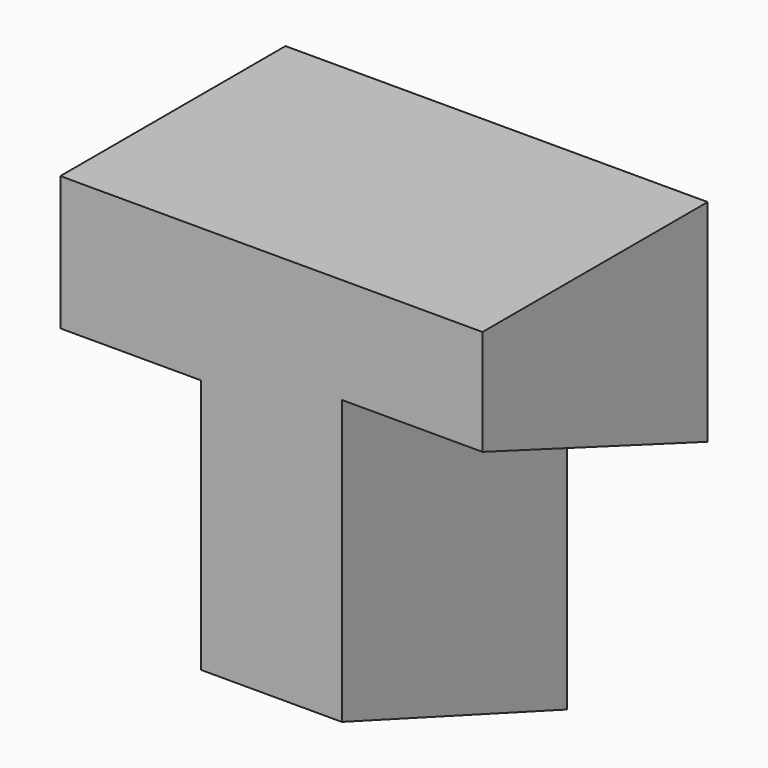
from build123d import *

# Parameters (mm, degrees)
F1_DEPTH = 25.4
F3_DEPTH = 25.4
F5_DEPTH = 12.7
F7_DEPTH = 12.7


with BuildPart() as f1:
    # F0 (on Front) → F1 (new body)
    with BuildSketch(Plane.XZ):
        Polygon((-12.7, 25.4), (0, 25.4), (0, 0), (12.7, 0), (12.7, 25.4), (25.4, 25.4), (25.4, 44.45), (-12.7, 44.45), align=None)
    extrude(amount=F1_DEPTH)

    # F2 (on face) → F3 (cut)
    with BuildSketch(Plane(origin=(0, 0, 0), x_dir=(0, -1, 0), z_dir=(-1, 0, 0))):
        Polygon((25.4, 9.339999), (0, 0), (25.4, 0), align=None)
    extrude(amount=-F3_DEPTH, mode=Mode.SUBTRACT)

    # F4 (on face) → F5 (cut)
    with BuildSketch(Plane(origin=(-12.7, 0, 0), x_dir=(0, -1, 0), z_dir=(-1, 0, 0))):
        Polygon((25.4, 25.4), (25.4, 32.345079), (0, 25.4), align=None)
    extrude(amount=-F5_DEPTH, mode=Mode.SUBTRACT)

    # F6 (on face) → F7 (cut)
    with BuildSketch(Plane.YZ.offset(25.4)):
        Polygon((-25.4, 25.4), (0, 25.4), (-25.4, 34.925), align=None)
    extrude(amount=-F7_DEPTH, mode=Mode.SUBTRACT)


solid = f1.part
